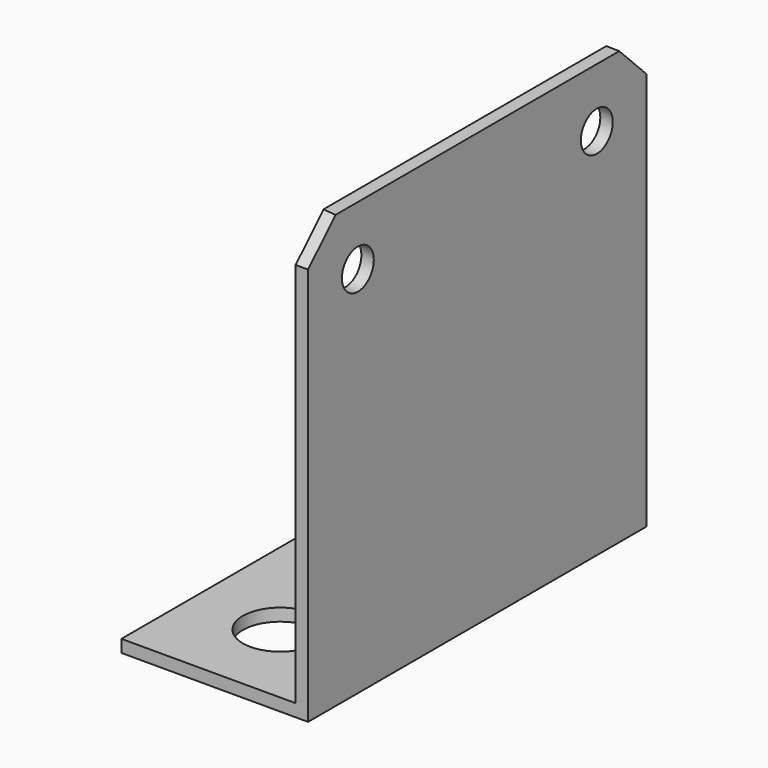
from build123d import *

# Parameters (mm, degrees)
F1_DEPTH  = 3.175
F2_W      = 44.45
F2_H      = 3.175
F3_DEPTH  = 107.95
F4_R      = 5.08
F5_DEPTH  = 3.175
F6_R      = 9.525
F7_DEPTH  = 3.175
F8_DEPTH  = 3.175
F12_DEPTH = 3.175
F12_TAPER = -3


with BuildPart() as f1:
    # F0 (on Right) → F1 (new body)
    with BuildSketch(Plane.YZ):
        Polygon((53.975, 38.1), (28.575, 63.5), (-28.575, 63.5), (-53.975, 38.1), (-53.975, -63.5), (53.975, -63.5), align=None)
    extrude(amount=F1_DEPTH)

    # F2 (on face) → F3 (join, through all)
    with BuildSketch(Plane.XZ.offset(53.975)):
        with Locations((25.4, -61.9125)):
            Rectangle(F2_W, F2_H)
    extrude(amount=-F3_DEPTH)

    # F4 (on face) → F5 (cut, through all)
    with BuildSketch(Plane.YZ.offset(3.175)):
        with Locations((-38.1, 31.75)):
            Circle(F4_R)
        with Locations((38.1, 31.75)):
            Circle(F4_R)
    extrude(amount=-F5_DEPTH, mode=Mode.SUBTRACT)

    # F6 (on face) → F7 (cut, through all)
    with BuildSketch(Plane.XY.offset(-60.325)):
        with Locations((25.4, 31.115)):
            Circle(F6_R)
        with Locations((25.4, -31.115)):
            Circle(F6_R)
    extrude(amount=-F7_DEPTH, mode=Mode.SUBTRACT)

    # F6 (on face) → F8 (cut, through all)
    with BuildSketch(Plane.XY.offset(-60.325)):
        with Locations((25.4, 31.115)):
            Circle(F6_R)
        with Locations((25.4, -31.115)):
            Circle(F6_R)
    extrude(amount=-F8_DEPTH, mode=Mode.SUBTRACT)


with BuildPart() as f9_1:
    # F9: instance of F1
    add(f1.part.mirror(Plane.YZ))

    # F11 (on face) → F12 (cut, through all)
    with BuildSketch(Plane(origin=(-3.175, 0, 0), x_dir=(0, -1, 0), z_dir=(-1, 0, 0))):
        Polygon((28.575, 63.5), (-28.575, 63.5), (-45.085, 46.99), (45.085, 46.99), align=None)
    extrude(amount=-F12_DEPTH, taper=F12_TAPER, mode=Mode.SUBTRACT)


solid = f9_1.part
